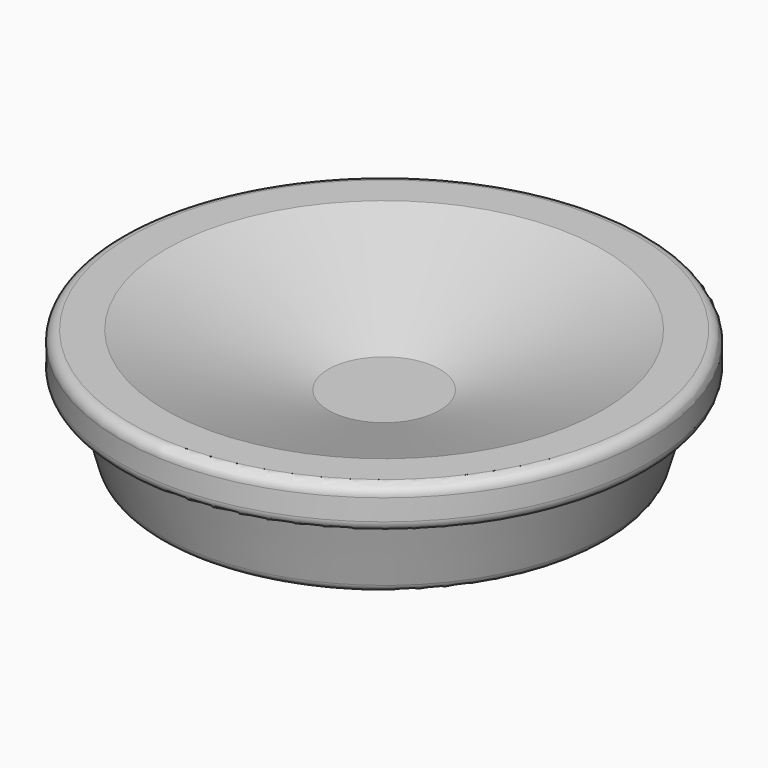
from build123d import *

# Parameters (mm, degrees)
FILLET017_R             = 1
FILLET018_R             = 1
SKETCH014_R             = 20.66285
POCKET_DEPTH            = 5
POCKET_TAPER            = 72
FILLET019_R             = 1
BODY014_PLACEMENT_ANGLE = 180


with BuildPart() as part:
    # Sketch013 → Revolve (revolve)
    with BuildSketch(Plane.XZ):
        Polygon((0, 0), (-25, 0), (-25, 4), (-23, 4), (-21, 11), (-8, 11), (-8, 17), (0, 17), align=None)
    revolve(axis=Axis((0, 0, 0), (0, 0, 1)))

    # Fillet017
    fillet017_edges = [part.edges().sort_by_distance(p)[0] for p in [
        (21, 0, 11),
        (8, 0, 17),
    ]]
    fillet(fillet017_edges, radius=FILLET017_R)

    # Fillet018
    fillet018_edges = [part.edges().sort_by_distance(p)[0] for p in [
        (25, 0, 4),
    ]]
    fillet(fillet018_edges, radius=FILLET018_R)

    # Sketch014 (on Face6 of BaseFeature002) → Pocket (cut)
    with BuildSketch(Plane(origin=(0, 0, 0), x_dir=(1, 0, 0), z_dir=(0, 0, -1))):
        Circle(SKETCH014_R)
    extrude(amount=-POCKET_DEPTH, taper=POCKET_TAPER, mode=Mode.SUBTRACT)

    # Fillet019
    fillet019_edges = [part.edges().sort_by_distance(p)[0] for p in [
        (25, 0, 0),
    ]]
    fillet(fillet019_edges, radius=FILLET019_R)


with BuildPart() as part_1:
    # Body014 placement: moved
    add(part.part.moved(Location((-3, 6, 38.5))).rotate(Axis((-3, 6, 38.5), (0, 1, 0)), BODY014_PLACEMENT_ANGLE))


solid = part_1.part
